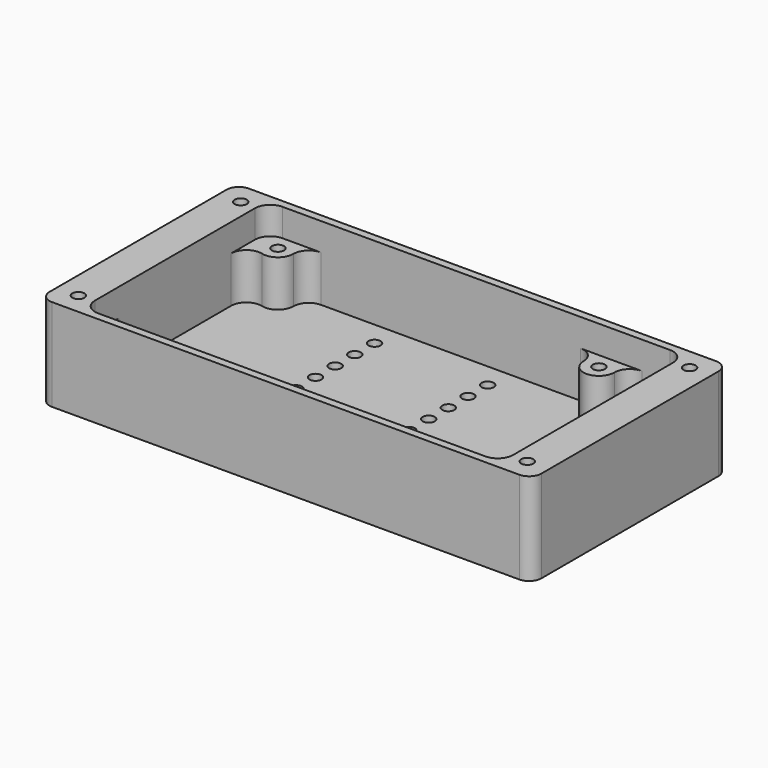
from build123d import *

# Parameters (mm, degrees)
F0_W      = 101.6
F0_H      = 50.8
F1_DEPTH  = 19.05
F2_R      = 2.54
F4_D      = 2.5
F4_DEPTH  = 14.2
F4_TIP    = 0.7510757738
F6_DEPTH  = 5.715
F8_D      = 2.5
F8_DEPTH  = 11.66
F8_TIP    = 0.7510757738
F10_DEPTH = 9.525
F12_D     = 2.5
F12_DEPTH = 3.81
F12_TIP   = 0.7510757738


with BuildPart() as f1:
    # F0 (on Top) → F1 (new body)
    with BuildSketch(Plane.XY):
        Rectangle(F0_W, F0_H)
    extrude(amount=-F1_DEPTH)

    # F2
    f2_edges = [f1.edges().sort_by_distance(p)[0] for p in [
        (-50.8, -25.4, -9.525),
        (50.8, -25.4, -9.525),
        (50.8, 25.4, -9.525),
        (-50.8, 25.4, -9.525),
    ]]
    fillet(f2_edges, radius=F2_R)

    # F4
    with Locations(Plane.XY):
        with Locations((-46.355, 20.955), (46.355, 20.955), (46.355, -20.955), (-46.355, -20.955)):
            Hole(F4_D / 2, depth=F4_DEPTH)
            with Locations((0, 0, -(F4_DEPTH + F4_TIP / 2))):  # 118° drill point
                Cone(0, F4_D / 2, F4_TIP, mode=Mode.SUBTRACT)

    # F5 (on face) → F6 (cut)
    with BuildSketch(Plane.XY):
        with BuildLine():
            Line((-40.005, -23.8125), (40.005, -23.8125))
            ThreePointArc((40.005, -23.8125), (42.2500640303, -22.8825640303), (43.18, -20.6375))
            Line((43.18, -20.6375), (43.18, 20.6375))
            ThreePointArc((43.18, 20.6375), (42.2500640303, 22.8825640303), (40.005, 23.8125))
            Line((40.005, 23.8125), (-40.005, 23.8125))
            ThreePointArc((-40.005, 23.8125), (-42.2500640303, 22.8825640303), (-43.18, 20.6375))
            Line((-43.18, 20.6375), (-43.18, -20.6375))
            ThreePointArc((-43.18, -20.6375), (-42.2500640303, -22.8825640303), (-40.005, -23.8125))
        make_face()
    extrude(amount=-F6_DEPTH, mode=Mode.SUBTRACT)

    # F8
    with Locations(Plane.XY.offset(-5.715)):
        with Locations((-38.4048, 20.6248), (27.8892, 20.6248), (27.8892, -20.6248), (-38.4048, -20.6248)):
            Hole(F8_D / 2, depth=F8_DEPTH)
            with Locations((0, 0, -(F8_DEPTH + F8_TIP / 2))):  # 118° drill point
                Cone(0, F8_D / 2, F8_TIP, mode=Mode.SUBTRACT)

    # F9 (on face) → F10 (cut)
    with BuildSketch(Plane.XY.offset(-5.715)):
        with BuildLine():
            Line((34.2391873, -23.8125), (40.005, -23.8125))
            ThreePointArc((40.005, -23.8125), (42.2500640303, -22.8825640303), (43.18, -20.6375))
            Line((43.18, -20.6375), (43.18, 20.6375))
            ThreePointArc((43.18, 20.6375), (42.2500640303, 22.8825640303), (40.005, 23.8125))
            Line((40.005, 23.8125), (34.2391873, 23.8125))
            ThreePointArc((34.2391873, 23.8125), (31.9918793271, 22.8803178426), (31.06419365, 20.63115))
            ThreePointArc((31.06419365, 20.63115), (27.8892, 17.4498), (24.71420635, 20.63115))
            ThreePointArc((24.71420635, 20.63115), (23.7865206729, 22.8803178426), (21.5392127, 23.8125))
            Line((21.5392127, 23.8125), (-32.0548127, 23.8125))
            ThreePointArc((-32.0548127, 23.8125), (-34.3021206729, 22.8803178426), (-35.22980635, 20.63115))
            ThreePointArc((-35.22980635, 20.63115), (-36.4606005283, 18.1146778089), (-39.2049, 17.5522660311))
            ThreePointArc((-39.2049, 17.5522660311), (-41.9466883761, 16.9917971987), (-43.18, 14.4797320622))
            Line((-43.18, 14.4797320622), (-43.18, -14.4797320622))
            ThreePointArc((-43.18, -14.4797320622), (-41.9466883761, -16.9917971987), (-39.2049, -17.5522660311))
            ThreePointArc((-39.2049, -17.5522660311), (-36.4606005283, -18.1146778089), (-35.22980635, -20.63115))
            ThreePointArc((-35.22980635, -20.63115), (-34.3021206729, -22.8803178426), (-32.0548127, -23.8125))
            Line((-32.0548127, -23.8125), (21.5392127, -23.8125))
            ThreePointArc((21.5392127, -23.8125), (23.7865206729, -22.8803178426), (24.71420635, -20.63115))
            ThreePointArc((24.71420635, -20.63115), (27.8892, -17.4498), (31.06419365, -20.63115))
            ThreePointArc((31.06419365, -20.63115), (31.9918793271, -22.8803178426), (34.2391873, -23.8125))
        make_face()
    extrude(amount=-F10_DEPTH, mode=Mode.SUBTRACT)

    # F12
    with Locations(Plane.XY.offset(-15.24)):
        with Locations((-16.9418, 18.7325), (-16.9418, 13.6525), (-16.9418, 8.5725), (-16.9418, 3.4925), (-16.9418, -1.5875), (-16.9418, -6.6675), (6.4262, -6.6675), (6.4262, -1.5875), (6.4262, 3.4925), (6.4262, 8.5725), (6.4262, 13.6525), (6.4262, 18.7325)):
            Hole(F12_D / 2, depth=F12_DEPTH)
            with Locations((0, 0, -(F12_DEPTH + F12_TIP / 2))):  # 118° drill point
                Cone(0, F12_D / 2, F12_TIP, mode=Mode.SUBTRACT)


solid = f1.part
